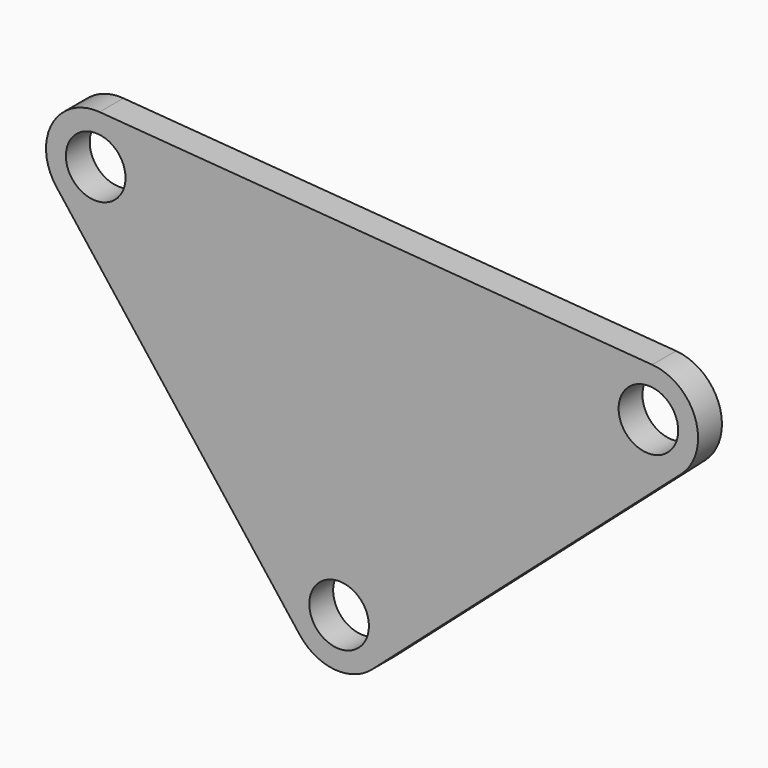
from build123d import *

# Parameters (mm, degrees)
F0_R     = 3
F1_DEPTH = 3


with BuildPart() as f1:
    # F0 (on Front) → F1 (new body)
    with BuildSketch(Plane.XZ):
        with BuildLine():
            ThreePointArc((-3.320951, 28.953652), (-1.885238, 34.289924), (-6.241767, 37.68959))
            Line((-6.241767, 37.68959), (-61.875717, 41.991171))
            ThreePointArc((-61.875717, 41.991171), (-66.660288, 39.38254), (-66.219214, 33.950916))
            Line((-66.219214, 33.950916), (-41.717044, 2.207356))
            ThreePointArc((-41.717044, 2.207356), (-38.235649, 0.285261), (-34.452731, 1.511672))
            Line((-34.452731, 1.511672), (-3.320951, 28.953652))
        make_face()
        with Locations((-37.758994, 5.262489)):
            Circle(F0_R, mode=Mode.SUBTRACT)
        with Locations((-62.261164, 37.00605)):
            Circle(F0_R, mode=Mode.SUBTRACT)
        with Locations((-6.627214, 32.704469)):
            Circle(F0_R, mode=Mode.SUBTRACT)
    extrude(amount=F1_DEPTH)


solid = f1.part
